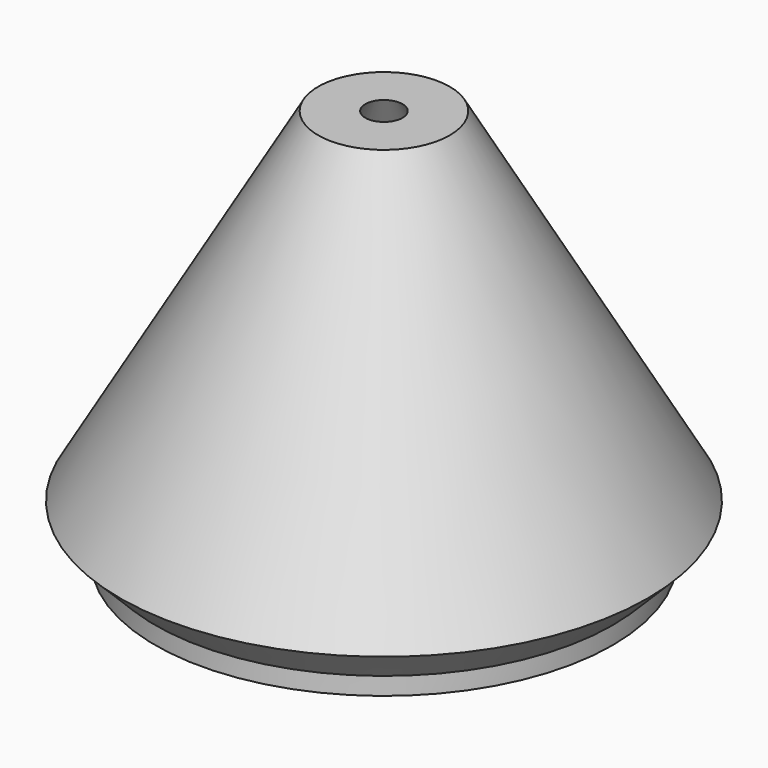
from build123d import *

# Parameters (mm, degrees)
SKETCH001_R  = 15.261185
POCKET_DEPTH = 14


with BuildPart() as part:
    # Sketch (on DatumPlane) → Revolution (revolve)
    with BuildSketch(Plane.XZ):
        Polygon((30, 6), (0.75, 56.662486), (0, 56.662486), (0, 48.662486), (22, 10.557368), (22, 0), (26, 0), (26, 2), align=None)
    revolve(axis=Axis((0, 0, 0), (0, 0, 1)))

    # Sketch001 (on DatumPlane) → Pocket (cut)
    with BuildSketch(Plane.XY.offset(45)):
        Circle(SKETCH001_R)
    extrude(amount=POCKET_DEPTH, mode=Mode.SUBTRACT)


solid = part.part
